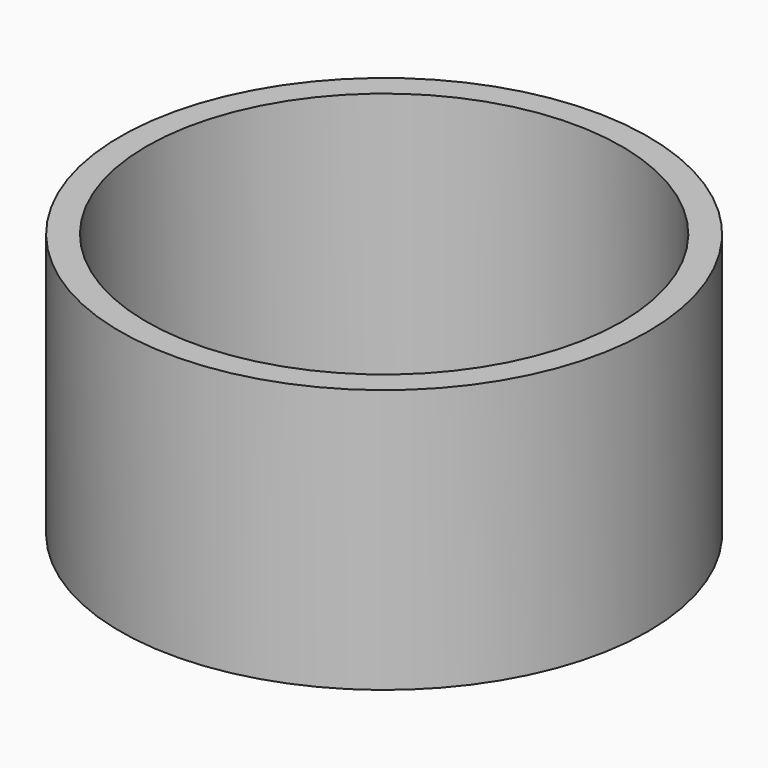
from build123d import *

# Parameters (mm, degrees)
F0_R     = 25
F1_DEPTH = 25
F2_T     = -2.5
F3_R     = 22.5
F4_DEPTH = 2.5


with BuildPart() as f1:
    # F0 (on Top) → F1 (new body)
    with BuildSketch(Plane.XY):
        Circle(F0_R)
    extrude(amount=F1_DEPTH)

    # F2
    f2_openings = [f1.faces().sort_by_distance(p)[0] for p in [
        (0, 0, 25),
    ]]
    offset(amount=F2_T, openings=f2_openings)

    # F3 (on face) → F4 (cut)
    with BuildSketch(Plane.XY.offset(2.5)):
        Circle(F3_R)
    extrude(amount=-F4_DEPTH, mode=Mode.SUBTRACT)


solid = f1.part
